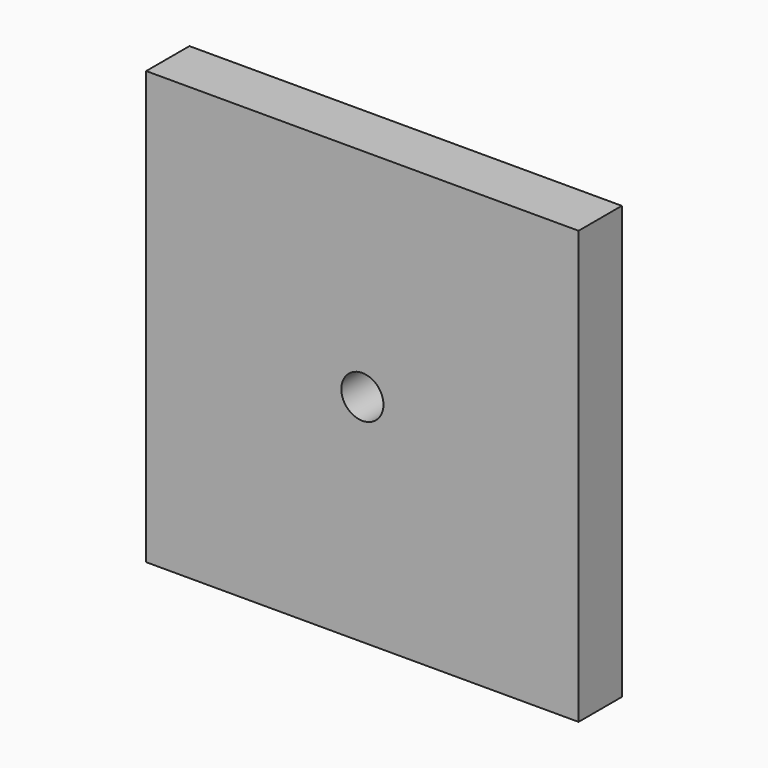
from build123d import *

# Parameters (mm, degrees)
SKETCH_AS_DRAWN_W              = 40
SKETCH_AS_DRAWN_H              = 40
SKETCH_AS_DRAWN_R              = 1.95
EXTRUDE_DEPTH                  = 5
EXTRUDE_ONTO_SKETCH_ROLL_ANGLE = 90


with BuildPart() as part:
    # Sketch as drawn → Extrude (new)
    with BuildSketch(Plane.XY):
        with Locations((8.934355, -4.827021)):
            Rectangle(SKETCH_AS_DRAWN_W, SKETCH_AS_DRAWN_H)
        with Locations((8.934355, -4.860531)):
            Circle(SKETCH_AS_DRAWN_R, mode=Mode.SUBTRACT)
    extrude(amount=EXTRUDE_DEPTH)


with BuildPart() as part_1:
    # Extrude onto Sketch roll: moved
    add(part.part.rotate(Axis((0, 0, 0), (1, 0, 0)), EXTRUDE_ONTO_SKETCH_ROLL_ANGLE))


with BuildPart() as part_2:
    # Extrude onto Sketch placement: moved
    add(part_1.part)


solid = part_2.part
